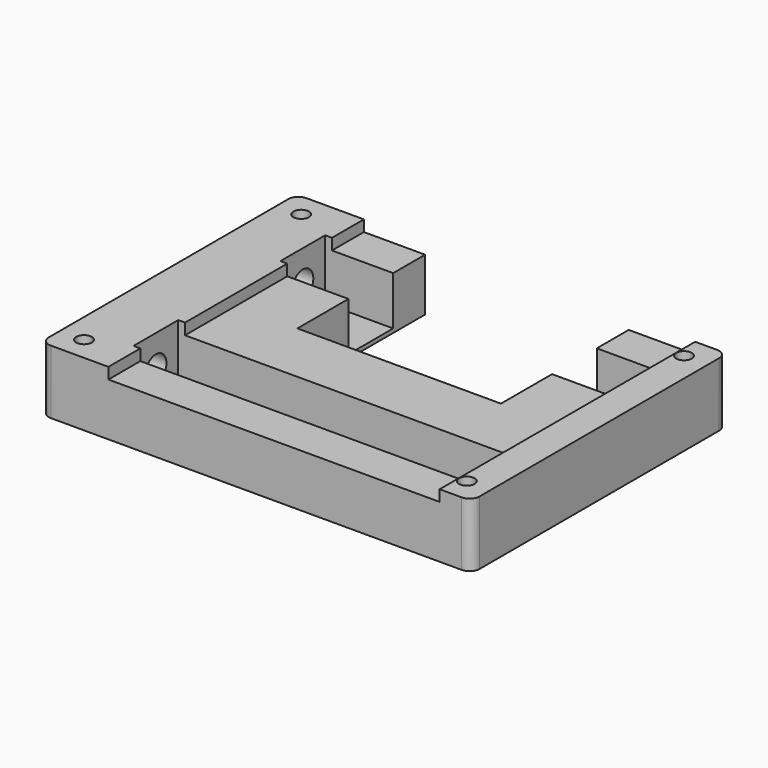
from build123d import *

# Parameters (mm, degrees)
F1_R      = 2.4765
F2_DEPTH  = 20.32
F3_W      = 58.3565
F3_H      = 3.556
F3_W_2    = 47.03826
F4_DEPTH  = 131.572
F5_R      = 3.175
F6_W      = 62.404111
F6_H      = 27.47877
F7_DEPTH  = 32.385
F8_W      = 49.20488
F8_H      = 17.78
F8_W_2    = 58.3565
F8_W_3    = 107.56138
F9_DEPTH  = 19.05
F10_R     = 4.191
F11_DEPTH = 130.175


with BuildPart() as f2:
    # F1 (on Top) → F2 (new body)
    with BuildSketch(Plane.XY):
        Polygon((68.5165, 50.8), (0, 50.8), (-68.5165, 50.8), (-68.5165, 0), (-68.5165, -50.8), (0, -50.8), (68.5165, -50.8), (68.5165, 0), align=None)
        with Locations((-60.8965, -43.18)):
            Circle(F1_R, mode=Mode.SUBTRACT)
        with Locations((60.8965, -43.18)):
            Circle(F1_R, mode=Mode.SUBTRACT)
        with Locations((-60.8965, 43.18)):
            Circle(F1_R, mode=Mode.SUBTRACT)
        with Locations((60.8965, 43.18)):
            Circle(F1_R, mode=Mode.SUBTRACT)
    extrude(amount=F2_DEPTH)

    # F3 (on face) → F4 (cut)
    with BuildSketch(Plane(origin=(0, 50.8, 0), x_dir=(-1, 0, 0), z_dir=(0, 1, 0))):
        with Locations((-29.17825, 18.542)):
            Rectangle(F3_W, F3_H)
        with Locations((23.51913, 18.542)):
            Rectangle(F3_W_2, F3_H)
    extrude(amount=-F4_DEPTH, mode=Mode.SUBTRACT)

    # F5
    f5_edges = [f2.edges().sort_by_distance(p)[0] for p in [
        (68.5165, 50.8, 10.16),
        (-68.5165, 50.8, 10.16),
        (-68.5165, -50.8, 10.16),
        (68.5165, -50.8, 10.16),
    ]]
    fillet(f5_edges, radius=F5_R)

    # F6 (on offset) → F7 (cut, symmetric)
    with BuildSketch(Plane.YZ.offset(4.826)):
        with Locations((31.202056, 13.739385)):
            Rectangle(F6_W, F6_H)
    extrude(amount=F7_DEPTH, both=True, mode=Mode.SUBTRACT)

    # F8 (on face) → F9 (cut)
    with BuildSketch(Plane.XY.offset(20.32)):
        with Locations((-24.60244, 29.21)):
            Rectangle(F8_W, F8_H)
        with Locations((29.17825, 29.21)):
            Rectangle(F8_W_2, F8_H)
        with Locations((4.57581, -29.21)):
            Rectangle(F8_W_3, F8_H)
    extrude(amount=-F9_DEPTH, mode=Mode.SUBTRACT)

    # F10 (on face) → F11 (cut)
    with BuildSketch(Plane(origin=(-68.5165, 0, 0), x_dir=(0, -1, 0), z_dir=(-1, 0, 0))):
        with Locations((-29.21, 10.19175)):
            Circle(F10_R)
        with Locations((29.21, 10.19175)):
            Circle(F10_R)
    extrude(amount=-F11_DEPTH, mode=Mode.SUBTRACT)


solid = f2.part
